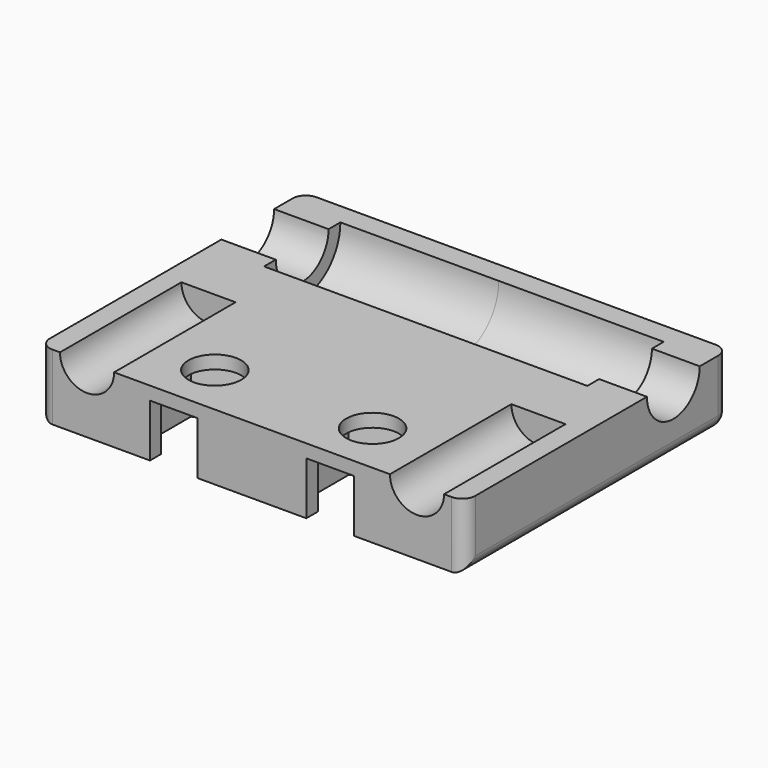
from build123d import *

# Parameters (mm, degrees)
F0_W           = 64.5
F0_H           = 50
F1_DEPTH       = 10
F3_DEPTH       = 8
F4_R           = 4
F5_DEPTH       = 25
F6_R           = 4.1
F7_DEPTH       = 23
F8_R           = 5
F9_DEPTH       = 64.501
F10_R          = 7.234183596
F11_DEPTH      = 24
F11_DEPTH_BACK = 25
F12_R          = 2
F13_W          = 7.2386283427
F13_H          = 5.7293735445
F14_DEPTH      = 25


with BuildPart() as f1:
    # F0 (on Top) → F1 (new body)
    with BuildSketch(Plane.XY):
        Rectangle(F0_W, F0_H)
    extrude(amount=F1_DEPTH)

    # F2 (on face) → F3 (cut)
    with BuildSketch(Plane(origin=(0, 0, 0), x_dir=(1, 0, 0), z_dir=(0, 0, -1))):
        Polygon((-5.2, 13.2086570489), (-5.2, 21.002885683), (-11.95, 24.9), (-18.7, 21.002885683), (-18.7, 13.2086570489), (-11.95, 9.3115427319), align=None)
        Polygon((18.7, 21.002885683), (11.95, 24.9), (5.2, 21.002885683), (5.2, 13.2086570489), (11.95, 9.3115427319), (18.7, 13.2086570489), align=None)
    extrude(amount=-F3_DEPTH, mode=Mode.SUBTRACT)

    # F4 (on face) → F5 (cut)
    with BuildSketch(Plane(origin=(0, 0, 8), x_dir=(1, 0, 0), z_dir=(0, 0, -1))):
        with Locations((-11.95, 17.1057713659)):
            Circle(F4_R)
        with Locations((11.95, 17.1057713659)):
            Circle(F4_R)
    extrude(amount=-F5_DEPTH, mode=Mode.SUBTRACT)

    # F6 (on face) → F7 (cut)
    with BuildSketch(Plane.XZ.offset(25)):
        with Locations((25, 10)):
            Circle(F6_R)
        with Locations((-25, 10)):
            Circle(F6_R)
    extrude(amount=-F7_DEPTH, mode=Mode.SUBTRACT)

    # F8 (on face) → F9 (cut, through all)
    with BuildSketch(Plane.YZ.offset(32.25)):
        with Locations((14.5, 10)):
            Circle(F8_R)
    extrude(amount=-F9_DEPTH, mode=Mode.SUBTRACT)

    # F10 (on Right) → F11 (cut, two sides)
    with BuildSketch(Plane.YZ) as f11_sk:
        with Locations((14.5, 10)):
            Circle(F10_R)
    extrude(amount=-F11_DEPTH, mode=Mode.SUBTRACT)
    extrude(f11_sk.sketch, amount=F11_DEPTH_BACK, mode=Mode.SUBTRACT)

    # F12
    f12_edges = [f1.edges().sort_by_distance(p)[0] for p in [
        (0, 25, 0),
        (32.25, 0, 0),
        (-32.25, 0, 0),
        (32.25, 25, 5),
        (-32.25, 25, 5),
        (-32.25, -25, 5),
        (32.25, -25, 5),
    ]]
    fillet(f12_edges, radius=F12_R)

    # F13 (on face) → F14 (cut)
    with BuildSketch(Plane(origin=(0, 0, 8), x_dir=(1, 0, 0), z_dir=(0, 0, -1))):
        with Locations((-11.8464780971, 24.8996280134)):
            Rectangle(F13_W, F13_H)
        Polygon((15.4657922685, 27.7643147856), (8.2271639258, 27.7643147856), (8.2271639258, 22.7506195904), (11.95, 24.9), (15.4657922685, 22.8701563874), align=None)
    extrude(amount=F14_DEPTH, mode=Mode.SUBTRACT)


solid = f1.part
